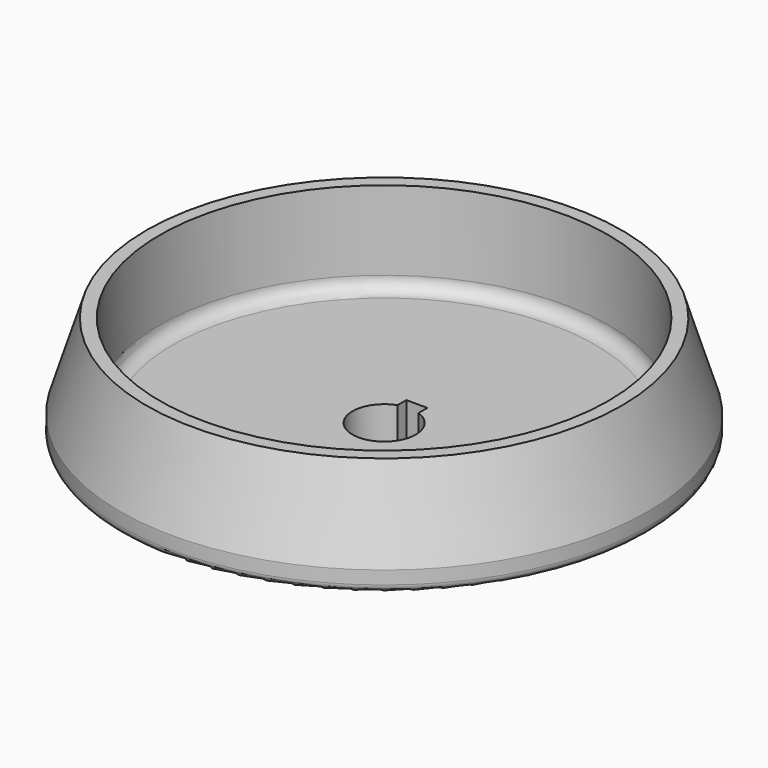
from build123d import *

# Parameters (mm, degrees)
F2_W     = 80
F2_H     = 70
F3_DEPTH = 370.001


with BuildPart() as f1:
    # F0 (on Front) → F1 (revolve)
    with BuildSketch(Plane.XZ):
        with BuildLine():
            Line((120, 370), (120, 0))
            Line((120, 0), (272.540271, 0))
            Line((272.540271, 0), (272.540271, 90))
            Line((272.540271, 90), (175.26418, 90))
            Line((175.26418, 90), (175.26418, 240))
            Line((175.26418, 240), (272.540271, 240))
            Line((272.540271, 240), (272.540271, 320))
            Line((272.540271, 320), (970, 320))
            ThreePointArc((970, 320), (991.213203, 328.786797), (1000, 350))
            Line((1000, 350), (1000, 400))
            Line((1000, 400), (900, 720))
            Line((900, 720), (850, 720))
            Line((850, 720), (850, 420))
            ThreePointArc((850, 420), (835.355339, 384.644661), (800, 370))
            Line((800, 370), (120, 370))
        make_face()
    revolve(axis=Axis((0, 0, -22.662076), (0, 0, -1)))

    # F2 (on face) → F3 (cut, through all)
    with BuildSketch(Plane.XY.offset(370)):
        with Locations((0, 120)):
            Rectangle(F2_W, F2_H)
    extrude(amount=-F3_DEPTH, mode=Mode.SUBTRACT)


solid = f1.part
